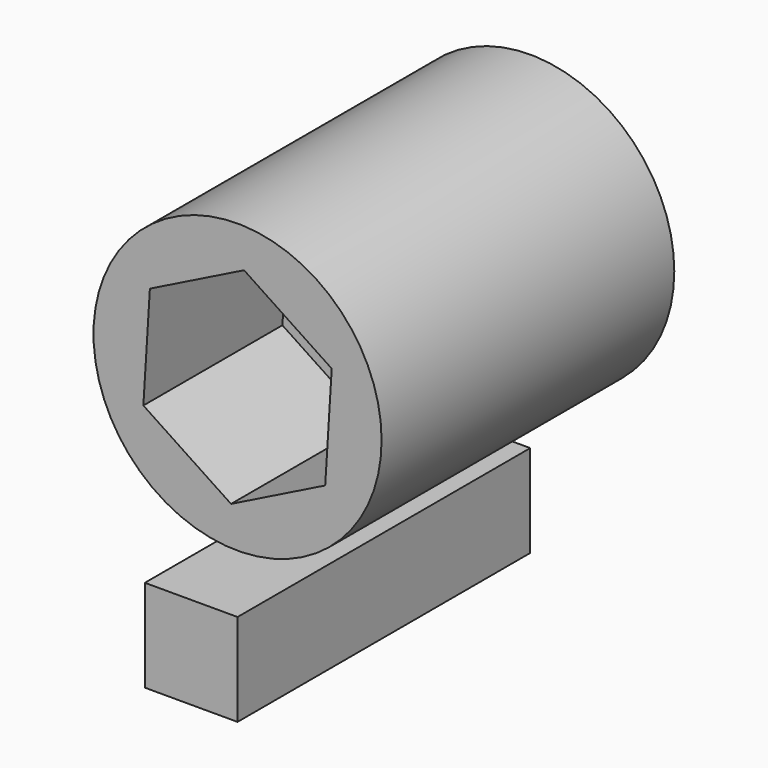
from build123d import *

# Parameters (mm, degrees)
F0_R     = 10
F0_W     = 6.433372
F0_H     = 6.412095
F1_DEPTH = 25.4
F3_DEPTH = 25.401
F4_DEPTH = 11.0998
F6_DEPTH = 12.065


with BuildPart() as f1:
    # F0 (on Front) → F1 (new body)
    with BuildSketch(Plane.XZ):
        Circle(F0_R)
        Polygon((0, -3.483541), (0, 0), (5.140638, 0), (5.140638, -3.483541), (5.140638, -3.998414), (4.776574, -3.998414), (4.776574, -3.483541), align=None, mode=Mode.SUBTRACT)
        with Locations((-3.216686, -17.259291)):
            Rectangle(F0_W, F0_H)
    extrude(amount=F1_DEPTH)

    # F2 (on Front) → F3 (cut, through all)
    with BuildSketch(Plane.XZ):
        with BuildLine():
            ThreePointArc((-4.7625, 0), (-3.367596, -3.367596), (0, -4.7625))
            ThreePointArc((0, -4.7625), (3.367596, -3.367596), (4.7625, 0))
            ThreePointArc((4.7625, 0), (3.367596, 3.367596), (0, 4.7625))
            ThreePointArc((0, 4.7625), (-3.367596, 3.367596), (-4.7625, 0))
        make_face()
    extrude(amount=F3_DEPTH, mode=Mode.SUBTRACT)

    # F2 (on Front) → F4 (cut)
    with BuildSketch(Plane.XZ):
        with BuildLine():
            Line((0, -4.7625), (4.7625, -4.7625))
            Line((4.7625, -4.7625), (4.7625, 0))
            ThreePointArc((4.7625, 0), (3.367596, -3.367596), (0, -4.7625))
        make_face()
        with BuildLine():
            Line((-4.7625, -4.7625), (0, -4.7625))
            ThreePointArc((0, -4.7625), (-3.367596, -3.367596), (-4.7625, 0))
            Line((-4.7625, 0), (-4.7625, -4.7625))
        make_face()
        with BuildLine():
            ThreePointArc((0, 4.7625), (3.367596, 3.367596), (4.7625, 0))
            Line((4.7625, 0), (4.7625, 4.7625))
            Line((4.7625, 4.7625), (0, 4.7625))
        make_face()
        with BuildLine():
            Line((-4.7625, 4.7625), (-4.7625, 0))
            ThreePointArc((-4.7625, 0), (-3.367596, 3.367596), (0, 4.7625))
            Line((0, 4.7625), (-4.7625, 4.7625))
        make_face()
    extrude(amount=F4_DEPTH, mode=Mode.SUBTRACT)

    # F5 (on face) → F6 (cut)
    with BuildSketch(Plane.XZ.offset(25.4)):
        Polygon((6.538104, 3.252645), (0.452179, 7.288487), (-6.085925, 4.035842), (-6.538104, -3.252645), (-0.452179, -7.288487), (6.085925, -4.035842), align=None)
    extrude(amount=-F6_DEPTH, mode=Mode.SUBTRACT)


solid = f1.part
